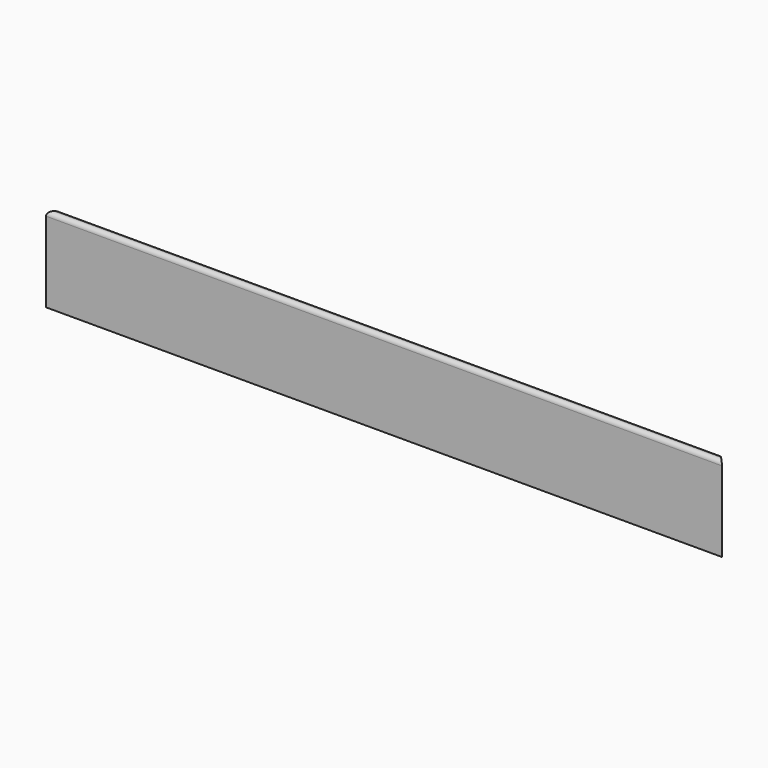
from build123d import *

# Parameters (mm, degrees)
F1_DEPTH = 800
F3_DEPTH = 100
F5_DEPTH = 100.001


with BuildPart() as f1:
    # F0 (on Right) → F1 (new body)
    with BuildSketch(Plane.YZ):
        with BuildLine():
            Line((-12.360656, 95), (-12.360656, 0))
            Line((-12.360656, 0), (82.639344, 0))
            ThreePointArc((82.639344, 0), (86.174878, 1.464466), (87.639344, 5))
            ThreePointArc((87.639344, 5), (86.174878, 8.535534), (82.639344, 10))
            Line((82.639344, 10), (2.639344, 10))
            ThreePointArc((2.639344, 10), (-0.89619, 11.464466), (-2.360656, 15))
            Line((-2.360656, 15), (-2.360656, 95))
            ThreePointArc((-2.360656, 95), (-3.825122, 98.535534), (-7.360656, 100))
            ThreePointArc((-7.360656, 100), (-10.89619, 98.535534), (-12.360656, 95))
        make_face()
    extrude(amount=F1_DEPTH)

    # F2 (on face) → F3 (cut)
    with BuildSketch(Plane(origin=(0, 0, 0), x_dir=(1, 0, 0), z_dir=(0, 0, -1))):
        Polygon((800, -82.639344), (800, 12.360656), (705, -82.639344), align=None)
        Polygon((800, -87.639344), (800, -82.639344), (705, -82.639344), (700, -87.639344), align=None)
    extrude(amount=-F3_DEPTH, mode=Mode.SUBTRACT)

    # F4 (on face) → F5 (cut, through all)
    with BuildSketch(Plane(origin=(0, 0, 0), x_dir=(1, 0, 0), z_dir=(0, 0, -1))):
        Polygon((95, -82.639344), (0, -82.639344), (0, -87.639344), (100, -87.639344), align=None)
        Polygon((95, -82.639344), (0, 12.360656), (0, -82.639344), align=None)
    extrude(amount=-F5_DEPTH, mode=Mode.SUBTRACT)


solid = f1.part
